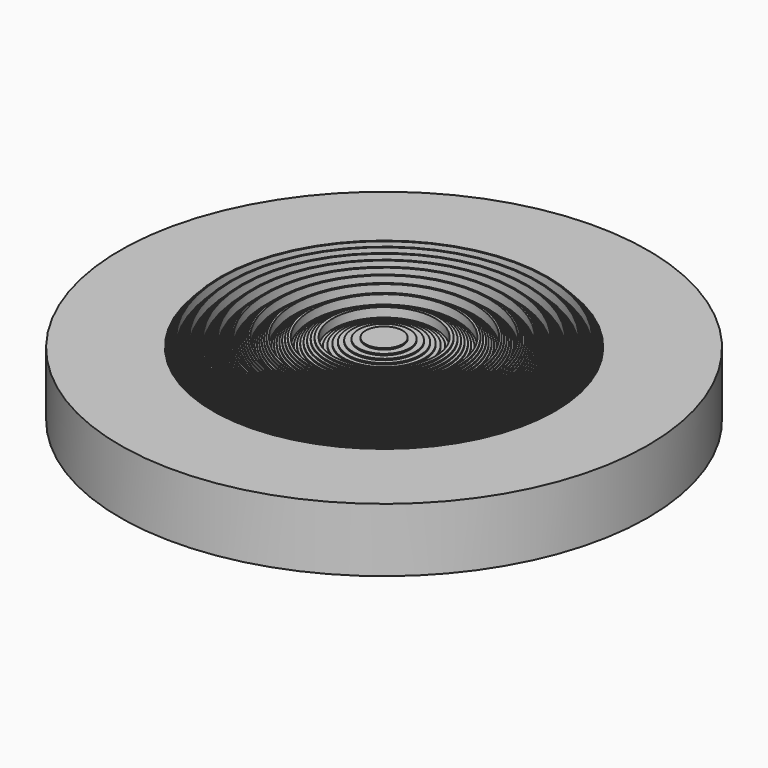
from build123d import *


with BuildPart() as f1:
    # F0 (on Front) → F1 (revolve)
    with BuildSketch(Plane.XZ):
        Polygon((0, 3.507), (0, 0), (12.7, 0), (12.7, 3.063), (8.291, 3.063), (8.232, 3.063), (8.232, 3.127), (8.173, 3.127), (8.173, 3.19), (8.114, 3.19), (8.114, 3.253), (8.055, 3.253), (8.055, 3.317), (7.995, 3.317), (7.995, 3.38), (7.935, 3.38), (7.935, 3.443), (7.875, 3.443), (7.875, 3.507), (7.814, 3.507), (7.814, 3.063), (7.753, 3.063), (7.753, 3.127), (7.692, 3.127), (7.692, 3.19), (7.631, 3.19), (7.631, 3.253), (7.569, 3.253), (7.569, 3.317), (7.507, 3.317), (7.507, 3.38), (7.444, 3.38), (7.444, 3.443), (7.382, 3.443), (7.382, 3.507), (7.319, 3.507), (7.319, 3.063), (7.255, 3.063), (7.255, 3.127), (7.191, 3.127), (7.191, 3.19), (7.127, 3.19), (7.127, 3.253), (7.062, 3.253), (7.062, 3.317), (6.998, 3.317), (6.998, 3.38), (6.932, 3.38), (6.932, 3.443), (6.866, 3.443), (6.866, 3.507), (6.8, 3.507), (6.8, 3.053), (6.733, 3.053), (6.733, 3.127), (6.666, 3.127), (6.666, 3.19), (6.599, 3.19), (6.599, 3.253), (6.53, 3.253), (6.53, 3.317), (6.462, 3.317), (6.462, 3.38), (6.393, 3.38), (6.393, 3.443), (6.323, 3.443), (6.323, 3.507), (6.253, 3.507), (6.253, 3.063), (6.182, 3.063), (6.182, 3.127), (6.111, 3.127), (6.111, 3.19), (6.039, 3.19), (6.039, 3.253), (5.966, 3.253), (5.966, 3.317), (5.893, 3.317), (5.893, 3.38), (5.819, 3.38), (5.819, 3.443), (5.744, 3.443), (5.744, 3.507), (5.669, 3.507), (5.669, 3.063), (5.593, 3.063), (5.593, 3.127), (5.516, 3.127), (5.516, 3.19), (5.438, 3.19), (5.438, 3.253), (5.359, 3.253), (5.359, 3.317), (5.28, 3.317), (5.28, 3.38), (5.199, 3.38), (5.199, 3.443), (5.117, 3.443), (5.117, 3.507), (5.035, 3.507), (5.035, 3.063), (4.951, 3.063), (4.951, 3.127), (4.866, 3.127), (4.866, 3.19), (4.78, 3.19), (4.78, 3.253), (4.693, 3.253), (4.693, 3.317), (4.604, 3.317), (4.604, 3.38), (4.514, 3.38), (4.514, 3.443), (4.423, 3.443), (4.423, 3.507), (4.33, 3.507), (4.33, 3.063), (4.235, 3.063), (4.235, 3.127), (4.138, 3.127), (4.138, 3.19), (4.039, 3.19), (4.039, 3.253), (3.938, 3.253), (3.938, 3.317), (3.835, 3.317), (3.835, 3.38), (3.729, 3.38), (3.729, 3.443), (3.621, 3.443), (3.621, 3.507), (3.51, 3.507), (3.51, 3.063), (3.395, 3.063), (3.395, 3.127), (3.277, 3.127), (3.277, 3.19), (3.155, 3.19), (3.155, 3.253), (3.028, 3.253), (3.028, 3.317), (2.897, 3.317), (2.897, 3.38), (2.759, 3.38), (2.759, 3.443), (2.615, 3.443), (2.615, 3.507), (2.464, 3.507), (2.464, 3.063), (2.302, 3.063), (2.302, 3.127), (2.13, 3.127), (2.13, 3.19), (1.942, 3.19), (1.942, 3.253), (1.735, 3.253), (1.735, 3.317), (1.502, 3.317), (1.502, 3.38), (1.225, 3.38), (1.225, 3.443), (0.8865, 3.443), (0.8865, 3.507), align=None)
    revolve(axis=Axis((0, 0, 1.7535), (0, 0, 1)))


solid = f1.part
